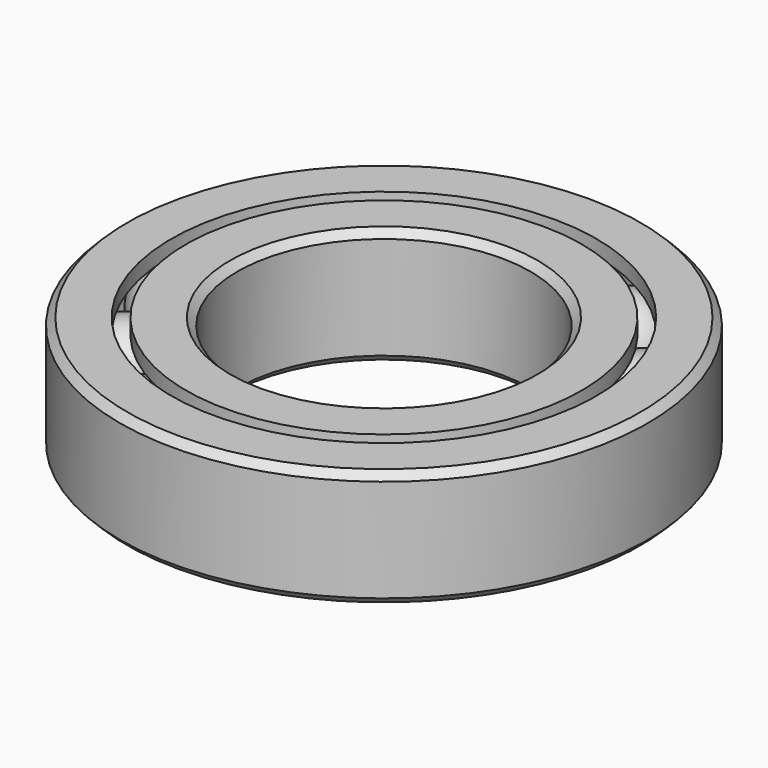
from build123d import *

# Parameters (mm, degrees)
F7_SIZE   = 0.5
F7_2_SIZE = 0.5
F8_COUNT  = 12
F10_W     = 72.5149698555
F10_H     = 102.2914275527
F11_DEPTH = 25


with BuildPart() as f5:
    # F4 (on Right) → F5 (revolve)
    with BuildSketch(Plane.YZ):
        with BuildLine():
            Line((14, -2.9), (14, 2.9))
            ThreePointArc((14, 2.9), (11.1, 0), (14, -2.9))
        make_face()
    revolve(axis=Axis((0, 14, 0), (0, 0, -1)))


with BuildPart() as f6:
    # F3 (on Right) → F6 (revolve)
    with BuildSketch(Plane.YZ):
        with BuildLine():
            ThreePointArc((13.5, -2.9580398915), (11, 0), (13.5, 2.9580398915))
            Line((13.5, 2.9580398915), (13.5, 4))
            Line((13.5, 4), (10, 4))
            Line((10, 4), (10, 0))
            Line((10, 0), (10, -4))
            Line((10, -4), (13.5, -4))
            Line((13.5, -4), (13.5, -2.9580398915))
        make_face()
    revolve(axis=Axis((0, 0, 3.6608051842), (0, 0, 1)))

    # F7#2
    f7_2_edges = [f6.edges().sort_by_distance(p)[0] for p in [
        (0, -10, 4),
        (0, -10, -4),
    ]]
    chamfer(f7_2_edges, length=F7_2_SIZE)


with BuildPart() as f6b:
    # F3 (on Right) → F6, piece 2 (revolve)
    with BuildSketch(Plane.YZ):
        with BuildLine():
            Line((14.5, 4), (14.5, 2.9580398915))
            ThreePointArc((14.5, 2.9580398915), (17, 0), (14.5, -2.9580398915))
            Line((14.5, -2.9580398915), (14.5, -4))
            Line((14.5, -4), (18, -4))
            Line((18, -4), (18, 0))
            Line((18, 0), (18, 4))
            Line((18, 4), (14.5, 4))
        make_face()
    revolve(axis=Axis((0, 0, 3.6608051842), (0, 0, 1)))

    # F7
    f7_edges = [f6b.edges().sort_by_distance(p)[0] for p in [
        (0, -18, 4),
        (0, -18, -4),
    ]]
    chamfer(f7_edges, length=F7_SIZE)


with BuildPart() as f8_1:
    # F8: instance of F5
    add(f5.part.rotate(Axis((0, 0, 3.6608051842), (0, 0, 1)), 1 * 360 / F8_COUNT))


with BuildPart() as f8_2:
    # F8: instance of F5
    add(f5.part.rotate(Axis((0, 0, 3.6608051842), (0, 0, 1)), 2 * 360 / F8_COUNT))


with BuildPart() as f8_3:
    # F8: instance of F5
    add(f5.part.rotate(Axis((0, 0, 3.6608051842), (0, 0, 1)), 3 * 360 / F8_COUNT))


with BuildPart() as f8_4:
    # F8: instance of F5
    add(f5.part.rotate(Axis((0, 0, 3.6608051842), (0, 0, 1)), 4 * 360 / F8_COUNT))


with BuildPart() as f8_5:
    # F8: instance of F5
    add(f5.part.rotate(Axis((0, 0, 3.6608051842), (0, 0, 1)), 5 * 360 / F8_COUNT))


with BuildPart() as f8_6:
    # F8: instance of F5
    add(f5.part.rotate(Axis((0, 0, 3.6608051842), (0, 0, 1)), 6 * 360 / F8_COUNT))


with BuildPart() as f8_7:
    # F8: instance of F5
    add(f5.part.rotate(Axis((0, 0, 3.6608051842), (0, 0, 1)), 7 * 360 / F8_COUNT))


with BuildPart() as f8_8:
    # F8: instance of F5
    add(f5.part.rotate(Axis((0, 0, 3.6608051842), (0, 0, 1)), 8 * 360 / F8_COUNT))


with BuildPart() as f8_9:
    # F8: instance of F5
    add(f5.part.rotate(Axis((0, 0, 3.6608051842), (0, 0, 1)), 9 * 360 / F8_COUNT))


with BuildPart() as f8_10:
    # F8: instance of F5
    add(f5.part.rotate(Axis((0, 0, 3.6608051842), (0, 0, 1)), 10 * 360 / F8_COUNT))


with BuildPart() as f8_11:
    # F8: instance of F5
    add(f5.part.rotate(Axis((0, 0, 3.6608051842), (0, 0, 1)), 11 * 360 / F8_COUNT))


with BuildPart() as f6_1:
    # F9: moved
    add(f6.part.moved(Location((0, 0, 156))))


with BuildPart() as f8_8_1:
    # F9: moved
    add(f8_8.part.moved(Location((0, 0, 156))))


with BuildPart() as f6b_1:
    # F9: moved
    add(f6b.part.moved(Location((0, 0, 156))))


with BuildPart() as f8_3_1:
    # F9: moved
    add(f8_3.part.moved(Location((0, 0, 156))))


with BuildPart() as f8_5_1:
    # F9: moved
    add(f8_5.part.moved(Location((0, 0, 156))))


with BuildPart() as f8_11_1:
    # F9: moved
    add(f8_11.part.moved(Location((0, 0, 156))))


with BuildPart() as f8_6_1:
    # F9: moved
    add(f8_6.part.moved(Location((0, 0, 156))))


with BuildPart() as f8_9_1:
    # F9: moved
    add(f8_9.part.moved(Location((0, 0, 156))))


with BuildPart() as f8_1_1:
    # F9: moved
    add(f8_1.part.moved(Location((0, 0, 156))))


with BuildPart() as f8_7_1:
    # F9: moved
    add(f8_7.part.moved(Location((0, 0, 156))))


with BuildPart() as f8_2_1:
    # F9: moved
    add(f8_2.part.moved(Location((0, 0, 156))))


with BuildPart() as f8_4_1:
    # F9: moved
    add(f8_4.part.moved(Location((0, 0, 156))))


with BuildPart() as f8_10_1:
    # F9: moved
    add(f8_10.part.moved(Location((0, 0, 156))))


with BuildPart() as f5_1:
    # F9: moved
    add(f5.part.moved(Location((0, 0, 156))))


with BuildPart() as f11:
    # F10 (on Top) → F11 (new body)
    with BuildSketch(Plane.XY):
        with Locations((89.2895963043, 92.5131477416)):
            Rectangle(F10_W, F10_H)
    extrude(amount=F11_DEPTH)


solid = Compound([f6_1.part, f8_8_1.part, f6b_1.part, f8_3_1.part, f8_5_1.part, f8_11_1.part, f8_6_1.part, f8_9_1.part, f8_1_1.part, f8_7_1.part, f8_2_1.part, f8_4_1.part, f8_10_1.part, f5_1.part])
